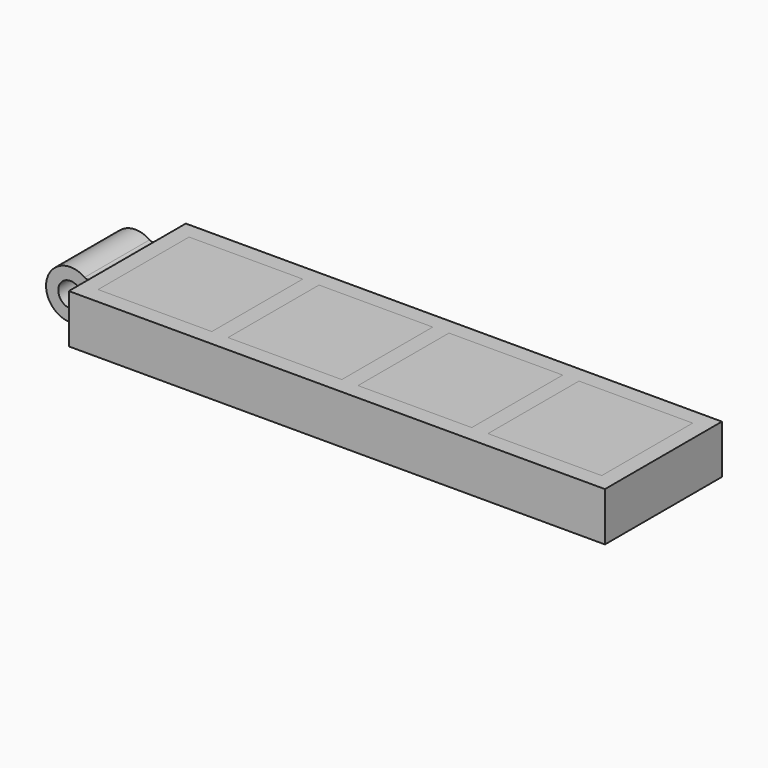
from build123d import *

# Parameters (mm, degrees)
F1_DEPTH = 4.5
F0_R     = 0.75
F2_DEPTH = 2.5
F3_W     = 7
F3_H     = 7
F4_DEPTH = 0.5
F5_DEPTH = 0.5
F6_R     = 0.3


with BuildPart() as f1:
    # F0 (on Front) → F1 (new body, symmetric)
    with BuildSketch(Plane.XZ):
        Polygon((34.5, 3), (1.5, 3), (1.5, 1.5), (1.5, 0), (34.5, 0), align=None)
    extrude(amount=F1_DEPTH, both=True)

    # F0 (on Front) → F2 (join, symmetric)
    with BuildSketch(Plane.XZ):
        with BuildLine():
            Line((1.5, 1.5), (1.5, 3))
            Line((1.5, 3), (1.0606601718, 2.5606601718))
            ThreePointArc((1.0606601718, 2.5606601718), (1.3858192988, 2.0740251485), (1.5, 1.5))
        make_face()
        with BuildLine():
            Line((1.5, 0), (1.5, 1.5))
            ThreePointArc((1.5, 1.5), (1.3858192988, 0.9259748515), (1.0606601718, 0.4393398282))
            Line((1.0606601718, 0.4393398282), (1.5, 0))
        make_face()
        with BuildLine():
            ThreePointArc((1.0606601718, 0.4393398282), (1.3858192988, 0.9259748515), (1.5, 1.5))
            ThreePointArc((1.5, 1.5), (1.3858192988, 2.0740251485), (1.0606601718, 2.5606601718))
            ThreePointArc((1.0606601718, 2.5606601718), (-1.5, 1.5), (1.0606601718, 0.4393398282))
        make_face()
        with Locations((0, 1.5)):
            Circle(F0_R, mode=Mode.SUBTRACT)
    extrude(amount=F2_DEPTH, both=True)

    # F3 (on face) → F4 (cut)
    with BuildSketch(Plane.XY.offset(3)):
        with Locations((30, 0)):
            Rectangle(F3_W, F3_H)
        with Locations((22, 0)):
            Rectangle(F3_W, F3_H)
        with Locations((14, 0)):
            Rectangle(F3_W, F3_H)
        with Locations((6, 0)):
            Rectangle(F3_W, F3_H)
    extrude(amount=-F4_DEPTH, mode=Mode.SUBTRACT)

    # F6
    f6_edges = [f1.edges().sort_by_distance(p)[0] for p in [
        (1.06066, 0, 2.56066),
        (1.06066, 0, 0.43934),
    ]]
    fillet(f6_edges, radius=F6_R)


with BuildPart() as f5:
    # F3 (on face) → F5 (new body)
    with BuildSketch(Plane.XY.offset(3)):
        with Locations((6, 0)):
            Rectangle(F3_W, F3_H)
    extrude(amount=-F5_DEPTH)


with BuildPart() as f5b:
    # F3 (on face) → F5, piece 2 (new body)
    with BuildSketch(Plane.XY.offset(3)):
        with Locations((14, 0)):
            Rectangle(F3_W, F3_H)
    extrude(amount=-F5_DEPTH)


with BuildPart() as f5c:
    # F3 (on face) → F5, piece 3 (new body)
    with BuildSketch(Plane.XY.offset(3)):
        with Locations((22, 0)):
            Rectangle(F3_W, F3_H)
    extrude(amount=-F5_DEPTH)


with BuildPart() as f5d:
    # F3 (on face) → F5, piece 4 (new body)
    with BuildSketch(Plane.XY.offset(3)):
        with Locations((30, 0)):
            Rectangle(F3_W, F3_H)
    extrude(amount=-F5_DEPTH)


solid = Compound([f1.part, f5.part, f5b.part, f5c.part, f5d.part])
